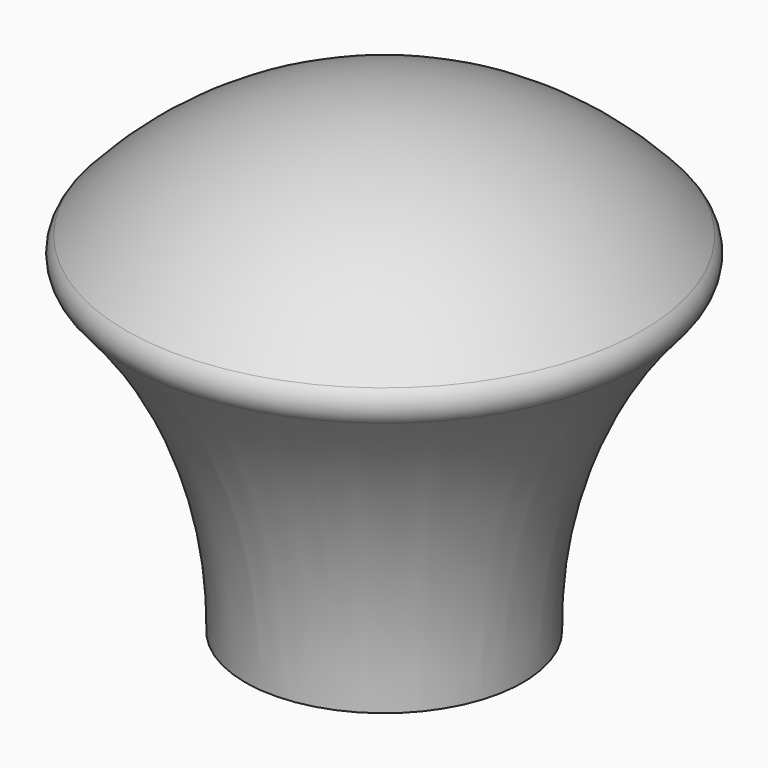
from build123d import *


with BuildPart() as f1:
    # F0 (on Front) → F1 (revolve)
    with BuildSketch(Plane.XZ):
        with BuildLine():
            ThreePointArc((-11.141805, 13.703861), (-7.272246, 7.339197), (-6, 0))
            Line((-6, 0), (-2, 0))
            Line((-2, 0), (-2, 0.6))
            Line((-2, 0.6), (-3.175, 0.6))
            Line((-3.175, 0.6), (-3.175, 5.85))
            Line((-3.175, 5.85), (0, 5.85))
            Line((0, 5.85), (0, 20))
            ThreePointArc((0, 20), (-6.097387, 18.704812), (-11.141805, 15.042917))
            ThreePointArc((-11.141805, 15.042917), (-11.399018, 14.373389), (-11.141805, 13.703861))
        make_face()
    revolve(axis=Axis((0, 0, 10), (0, 0, 1)))


solid = f1.part
